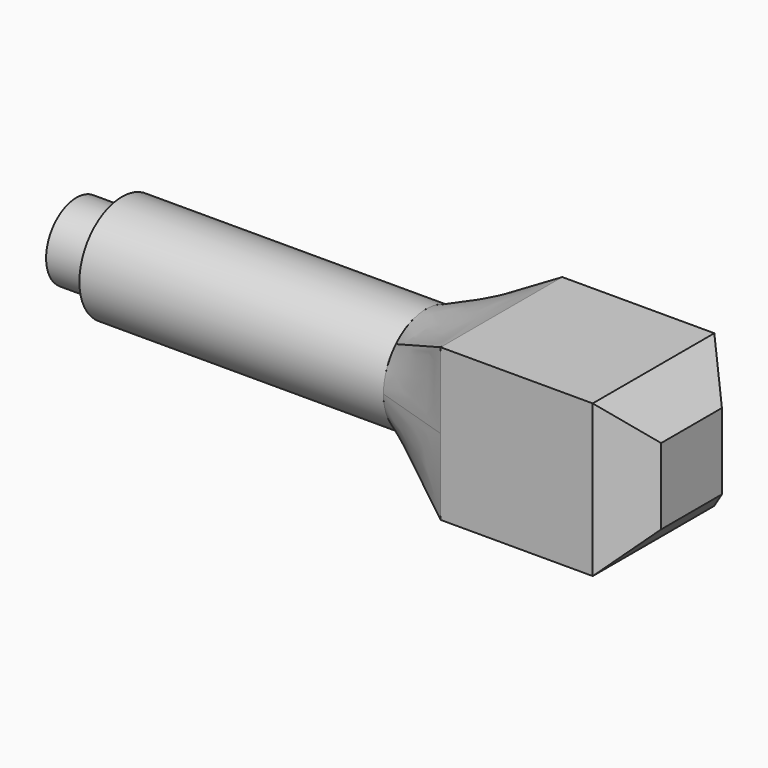
from build123d import *

# Parameters (mm, degrees)
F0_W      = 25
F0_H      = 20
F1_DEPTH  = 20
F2_SIZE   = 5
F4_R      = 7
F5_DEPTH  = 40
F5_FACE_R = 7
F1_FACE_W = 20
F1_FACE_H = 20
F7_R      = 5
F8_DEPTH  = 6


with BuildPart() as f1:
    # F0 (on Front) → F1 (new body)
    with BuildSketch(Plane.XZ):
        with Locations((-7.2345635854, 7.9736135416)):
            Rectangle(F0_W, F0_H)
    extrude(amount=F1_DEPTH)

    # F2
    f2_edges = [f1.edges().sort_by_distance(p)[0] for p in [
        (5.265436, -10, -2.026386),
        (5.265436, -10, 17.973614),
        (5.265436, 0, 7.973614),
        (5.265436, -20, 7.973614),
    ]]
    chamfer(f2_edges, length=F2_SIZE)

    # F5_face (on face) → F6 section 0
    with BuildSketch(Plane(origin=(-29.7345635854, -9.920351565, 8.0523975194), x_dir=(0, -1, 0), z_dir=(1, 0, 0))):
        Circle(F5_FACE_R)
    # F1_face (on face) → F6 section 1
    with BuildSketch(Plane(origin=(-19.7345635854, -10, 7.9736135416), x_dir=(0, -1, 0), z_dir=(-1, 0, 0))):
        Rectangle(F1_FACE_W, F1_FACE_H)
    loft()


with BuildPart() as f5:
    # F4 (on offset) → F5 (new body)
    with BuildSketch(Plane(origin=(-29.7345635854, 0, 0), x_dir=(0, -1, 0), z_dir=(-1, 0, 0))):
        with Locations((9.920351565, 8.0523975194)):
            Circle(F4_R)
    extrude(amount=F5_DEPTH)

    # F7 (on face) → F8 (join)
    with BuildSketch(Plane(origin=(-69.7345635854, 0, 0), x_dir=(0, -1, 0), z_dir=(-1, 0, 0))):
        with Locations((9.8977517168, 7.9960664734)):
            Circle(F7_R)
    extrude(amount=F8_DEPTH)


solid = Compound([f1.part, f5.part])
